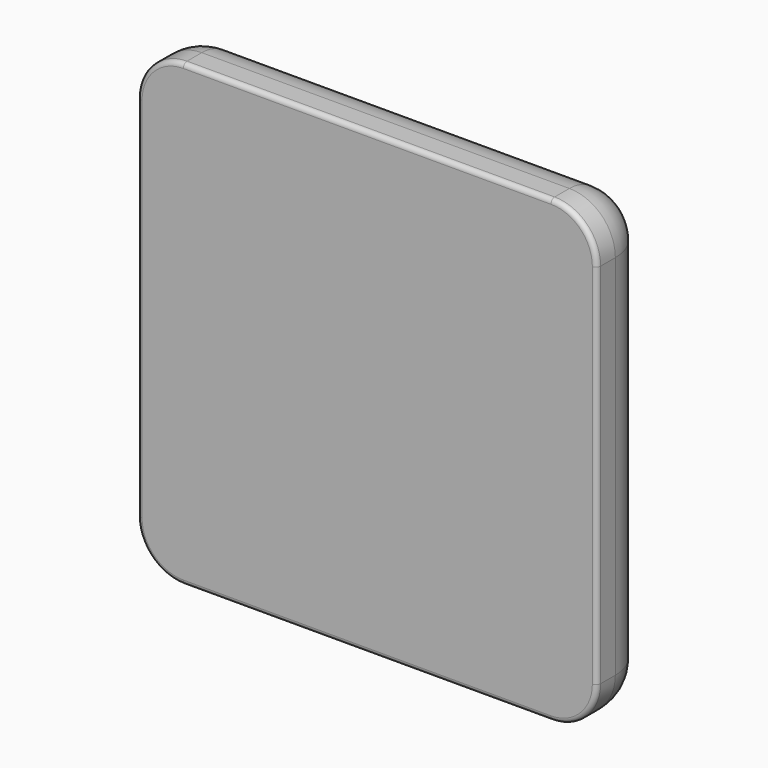
from build123d import *

# Parameters (mm, degrees)
F0_W     = 254
F0_H     = 254
F1_DEPTH = 38.1
F2_R     = 25.4
F3_R     = 25.4
F4_R     = 25.4
F5_R     = 25.4
F6_R     = 2.54
F7_R     = 25.4


with BuildPart() as f1:
    # F0 (on Front) → F1 (new body)
    with BuildSketch(Plane.XZ):
        with Locations((127, 127)):
            Rectangle(F0_W, F0_H)
    extrude(amount=F1_DEPTH)

    # F2
    f2_edges = [f1.edges().sort_by_distance(p)[0] for p in [
        (0, -19.05, 254),
    ]]
    fillet(f2_edges, radius=F2_R)

    # F3
    f3_edges = [f1.edges().sort_by_distance(p)[0] for p in [
        (0, -19.05, 0),
    ]]
    fillet(f3_edges, radius=F3_R)

    # F4
    f4_edges = [f1.edges().sort_by_distance(p)[0] for p in [
        (254, -19.05, 0),
    ]]
    fillet(f4_edges, radius=F4_R)

    # F5
    f5_edges = [f1.edges().sort_by_distance(p)[0] for p in [
        (254, -19.05, 254),
    ]]
    fillet(f5_edges, radius=F5_R)

    # F6
    f6_edges = [f1.edges().sort_by_distance(p)[0] for p in [
        (254, -38.1, 127),
    ]]
    fillet(f6_edges, radius=F6_R)

    # F7
    f7_edges = [f1.edges().sort_by_distance(p)[0] for p in [
        (254, 0, 127),
    ]]
    fillet(f7_edges, radius=F7_R)


solid = f1.part
